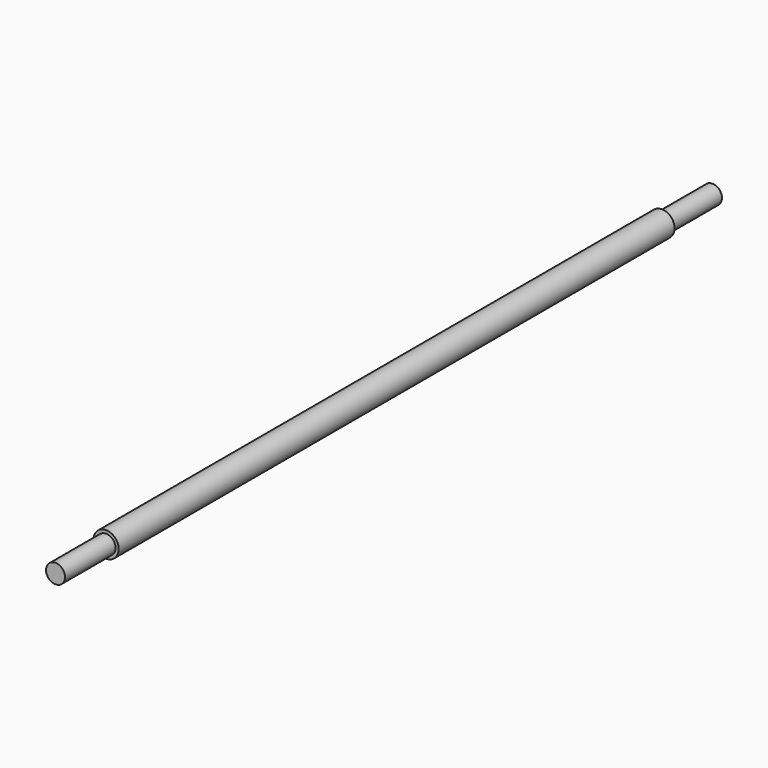
from build123d import *

# Parameters (mm, degrees)
F0_R     = 2
F1_DEPTH = 65
F2_R     = 2
F2_R_2   = 1.5
F3_DEPTH = 10
F4_R     = 2
F4_R_2   = 1.5
F5_DEPTH = 10


with BuildPart() as f1:
    # F0 (on Front) → F1 (new body, symmetric)
    with BuildSketch(Plane.XZ):
        Circle(F0_R)
    extrude(amount=F1_DEPTH, both=True)

    # F2 (on face) → F3 (cut)
    with BuildSketch(Plane.XZ.offset(65)):
        Circle(F2_R)
        Circle(F2_R_2, mode=Mode.SUBTRACT)
    extrude(amount=-F3_DEPTH, mode=Mode.SUBTRACT)

    # F4 (on face) → F5 (cut)
    with BuildSketch(Plane(origin=(0, 65, 0), x_dir=(-1, 0, 0), z_dir=(0, 1, 0))):
        Circle(F4_R)
        Circle(F4_R_2, mode=Mode.SUBTRACT)
    extrude(amount=-F5_DEPTH, mode=Mode.SUBTRACT)


solid = f1.part
